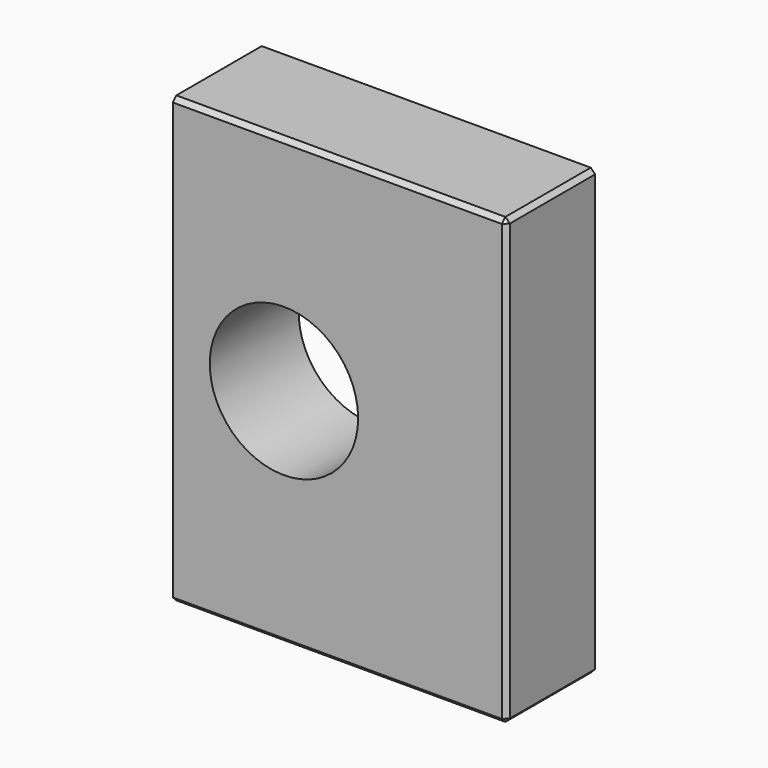
from build123d import *

# Parameters (mm, degrees)
F0_W     = 57.15
F0_H     = 76.2
F0_R     = 12.7127
F1_DEPTH = 19.05
F3_D     = 6.5278
F3_DEPTH = 16.002
F3_TIP   = 1.9611489744
F4_SIZE2 = 0.762
F4_SIZE  = 0.762


with BuildPart() as f1:
    # F0 (on Front) → F1 (new body)
    with BuildSketch(Plane.XZ):
        with Locations((28.575, 38.1)):
            Rectangle(F0_W, F0_H)
        with Locations((19.05, 38.1)):
            Circle(F0_R, mode=Mode.SUBTRACT)
    extrude(amount=F1_DEPTH)

    # F3
    with Locations(Plane(origin=(0, 0, 0), x_dir=(0, -1, 0), z_dir=(-1, 0, 0))):
        with Locations((9.525, 60.325), (9.525, 15.875)):
            Hole(F3_D / 2, depth=F3_DEPTH)
            with Locations((0, 0, -(F3_DEPTH + F3_TIP / 2))):  # 118° drill point
                Cone(0, F3_D / 2, F3_TIP, mode=Mode.SUBTRACT)

    # F4
    f4_edges = [f1.edges().sort_by_distance(p)[0] for p in [
        (57.15, -19.05, 38.1),
        (28.575, -19.05, 76.2),
        (28.575, -19.05, 0),
        (57.15, -9.525, 76.2),
        (57.15, -9.525, 0),
    ]]
    chamfer(f4_edges, length=F4_SIZE, length2=F4_SIZE2)


solid = f1.part
